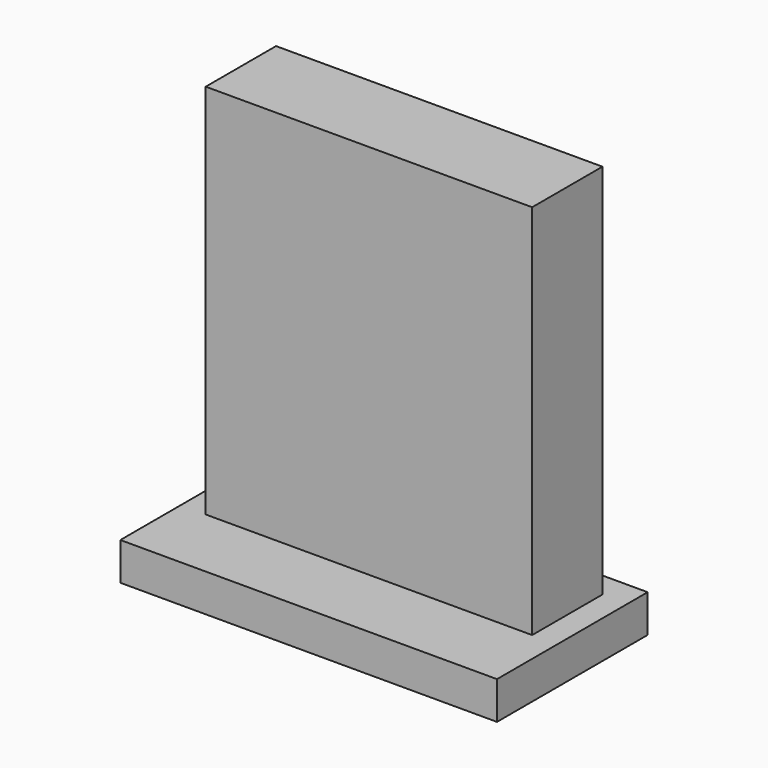
from build123d import *

# Parameters (mm, degrees)
F0_W     = 26
F0_H     = 30
F1_DEPTH = 7
F2_W     = 30
F2_H     = 15
F3_DEPTH = 3


with BuildPart() as f1:
    # F0 (on Front) → F1 (new body)
    with BuildSketch(Plane.XZ):
        with Locations((0, 15)):
            Rectangle(F0_W, F0_H)
    extrude(amount=F1_DEPTH)

    # F2 (on Top) → F3 (join)
    with BuildSketch(Plane.XY):
        with Locations((0, -5.5)):
            Rectangle(F2_W, F2_H)
    extrude(amount=-F3_DEPTH)


solid = f1.part
